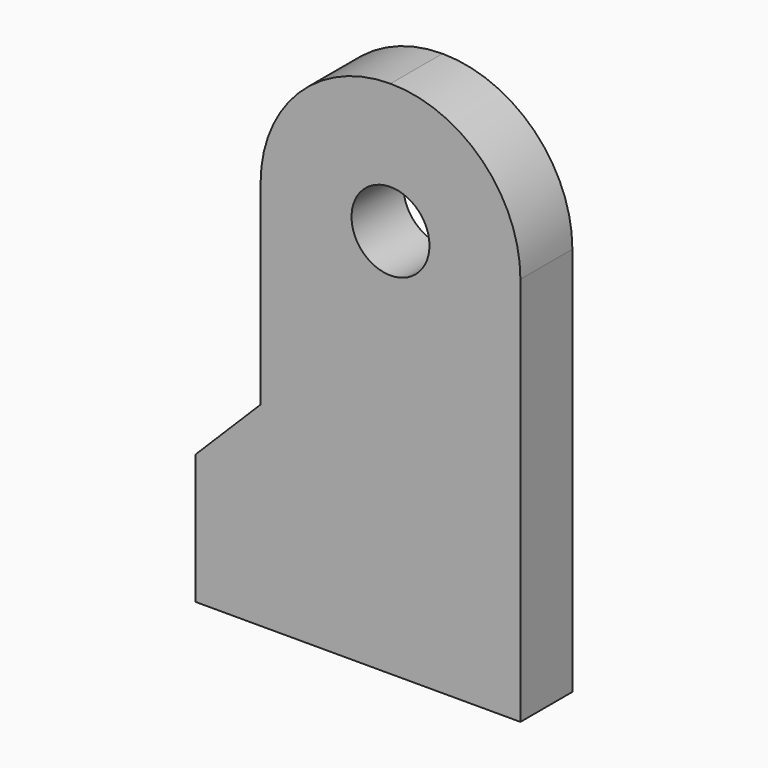
from build123d import *

# Parameters (mm, degrees)
F0_R     = 6
F1_DEPTH = 10


with BuildPart() as f1:
    # F0 (on Front) → F1 (new body)
    with BuildSketch(Plane.XZ):
        with BuildLine():
            ThreePointArc((0, 20), (-14.142136, 14.142136), (-20, 0))
            Line((-20, 0), (-20, -30))
            Line((-20, -30), (-30, -40))
            Line((-30, -40), (-30, -60))
            Line((-30, -60), (20, -60))
            Line((20, -60), (20, 0))
            ThreePointArc((20, 0), (14.142136, 14.142136), (0, 20))
        make_face()
        Circle(F0_R, mode=Mode.SUBTRACT)
    extrude(amount=F1_DEPTH)


solid = f1.part
